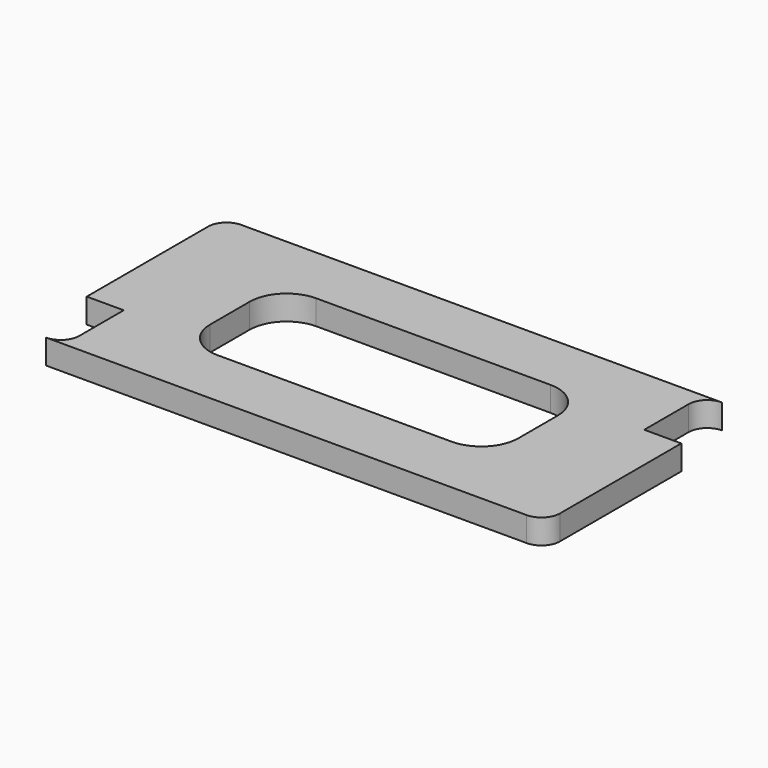
from build123d import *

# Parameters (mm, degrees)
F1_DEPTH = 2


with BuildPart() as f1:
    # F0 (on Top) → F1 (new body)
    with BuildSketch(Plane.XY):
        with BuildLine():
            ThreePointArc((-18.525, 9.79253), (-19.58566, 9.35319), (-20.025, 8.29253))
            Line((-20.025, 8.29253), (-20.025, -4.00747))
            Line((-20.025, -4.00747), (-17.025, -4.00747))
            Line((-17.025, -4.00747), (-17.025, 8.29253))
            ThreePointArc((-17.025, 8.29253), (-17.46434, 9.35319), (-18.525, 9.79253))
        make_face()
        with BuildLine():
            Line((20.475, 9.79253), (-18.525, 9.79253))
            ThreePointArc((-18.525, 9.79253), (-17.46434, 9.35319), (-17.025, 8.29253))
            Line((-17.025, 8.29253), (-17.025, -4.00747))
            Line((-17.025, -4.00747), (-17.025, -8.50747))
            ThreePointArc((-17.025, -8.50747), (-17.46434, -9.56813), (-18.525, -10.00747))
            Line((-18.525, -10.00747), (20.475, -10.00747))
            ThreePointArc((20.475, -10.00747), (19.41434, -9.56813), (18.975, -8.50747))
            Line((18.975, -8.50747), (18.975, 3.79253))
            Line((18.975, 3.79253), (18.975, 8.29253))
            ThreePointArc((18.975, 8.29253), (19.41434, 9.35319), (20.475, 9.79253))
        make_face()
        with BuildLine():
            ThreePointArc((-11.525, 1.89253), (-10.64632, 4.01385), (-8.525, 4.89253))
            Line((-8.525, 4.89253), (10.475, 4.89253))
            ThreePointArc((10.475, 4.89253), (12.59632, 4.01385), (13.475, 1.89253))
            Line((13.475, 1.89253), (13.475, -2.10747))
            ThreePointArc((13.475, -2.10747), (12.59632, -4.22879), (10.475, -5.10747))
            Line((10.475, -5.10747), (-8.525, -5.10747))
            ThreePointArc((-8.525, -5.10747), (-10.64632, -4.22879), (-11.525, -2.10747))
            Line((-11.525, -2.10747), (-11.525, 1.89253))
        make_face(mode=Mode.SUBTRACT)
        with BuildLine():
            ThreePointArc((18.975, -8.50747), (19.41434, -9.56813), (20.475, -10.00747))
            ThreePointArc((20.475, -10.00747), (21.53566, -9.56813), (21.975, -8.50747))
            Line((21.975, -8.50747), (21.975, 3.79253))
            Line((21.975, 3.79253), (18.975, 3.79253))
            Line((18.975, 3.79253), (18.975, -8.50747))
        make_face()
    extrude(amount=F1_DEPTH)


solid = f1.part
